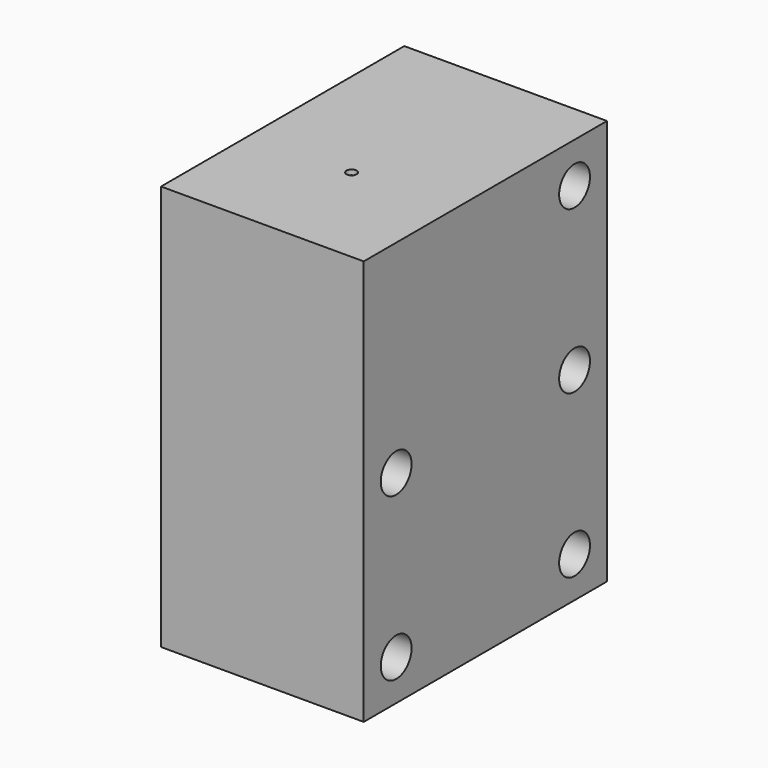
from build123d import *

# Parameters (mm, degrees)
SKETCH015_W     = 20
SKETCH015_H     = 30
PAD006_DEPTH    = 40
SKETCH016_R     = 1.9
POCKET009_DEPTH = 20.001
SKETCH017_R     = 3
POCKET010_DEPTH = 3
SKETCH018_R     = 0.5
POCKET011_DEPTH = 0.5


with BuildPart() as part:
    # Sketch015 → Pad006 (new body)
    with BuildSketch(Plane.XY):
        with Locations((-43, 0)):
            Rectangle(SKETCH015_W, SKETCH015_H)
    extrude(amount=PAD006_DEPTH)

    # Sketch016 (on Face4 of Pad006) → Pocket009 (cut, through all)
    with BuildSketch(Plane(origin=(-53, 0, 0), x_dir=(0, -1, 0), z_dir=(-1, 0, 0))):
        with Locations((-11, 36)):
            Circle(SKETCH016_R)
        with Locations((11, 20)):
            Circle(SKETCH016_R)
        with Locations((-11, 20)):
            Circle(SKETCH016_R)
        with Locations((-11, 4)):
            Circle(SKETCH016_R)
        with Locations((11, 4)):
            Circle(SKETCH016_R)
    extrude(amount=-POCKET009_DEPTH, mode=Mode.SUBTRACT)

    # Sketch017 (on Face2 of Pocket009) → Pocket010 (cut)
    with BuildSketch(Plane(origin=(-53, 0, 0), x_dir=(0, -1, 0), z_dir=(-1, 0, 0))):
        with Locations((-11, 36)):
            Circle(SKETCH017_R)
        with Locations((-11, 20)):
            Circle(SKETCH017_R)
        with Locations((-11, 4)):
            Circle(SKETCH017_R)
        with Locations((11, 4)):
            Circle(SKETCH017_R)
        with Locations((11, 20)):
            Circle(SKETCH017_R)
    extrude(amount=-POCKET010_DEPTH, mode=Mode.SUBTRACT)

    # Sketch018 (on Face5 of Pocket010) → Pocket011 (cut)
    with BuildSketch(Plane.XY.offset(40)):
        with Locations((-43, -4)):
            Circle(SKETCH018_R)
    extrude(amount=-POCKET011_DEPTH, mode=Mode.SUBTRACT)


solid = part.part
